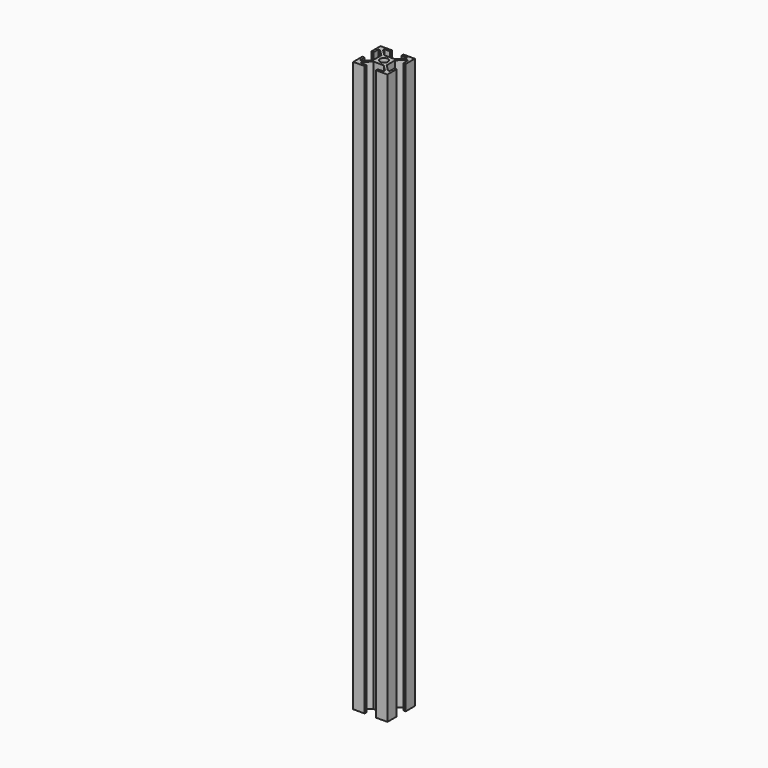
from build123d import *

# Parameters (mm, degrees)
F0_R     = 3.5
F1_DEPTH = 500


with BuildPart() as f1:
    # F0 (on Top) → F1 (new body)
    with BuildSketch(Plane.XY):
        Polygon((4.585786, 6), (-4.585786, 6), (-10, 11.414214), (-10, 13), (-5, 13), (-5, 15), (-15, 15), (-15, 5), (-13, 5), (-13, 10), (-11.414214, 10), (-6, 4.585786), (-6, -4.585786), (-11.414214, -10), (-13, -10), (-13, -5), (-15, -5), (-15, -15), (-5, -15), (-5, -13), (-10, -13), (-10, -11.414214), (-4.585786, -6), (4.585786, -6), (9.999999, -11.414215), (9.999999, -13.000001), (4.999999, -13.000001), (4.999999, -15.000001), (14.999999, -15.000001), (14.999999, -5.000001), (12.999999, -5.000001), (12.999999, -10.000001), (11.414212, -10.000001), (6, -4.585786), (6, 4.585786), (11.414212, 10.000001), (12.999999, 10.000001), (12.999999, 5.000001), (14.999999, 5.000001), (14.999999, 15.000001), (4.999999, 15.000001), (4.999999, 13.000001), (9.999999, 13.000001), (9.999999, 11.414215), align=None)
        Circle(F0_R, mode=Mode.SUBTRACT)
    extrude(amount=F1_DEPTH)


solid = f1.part
